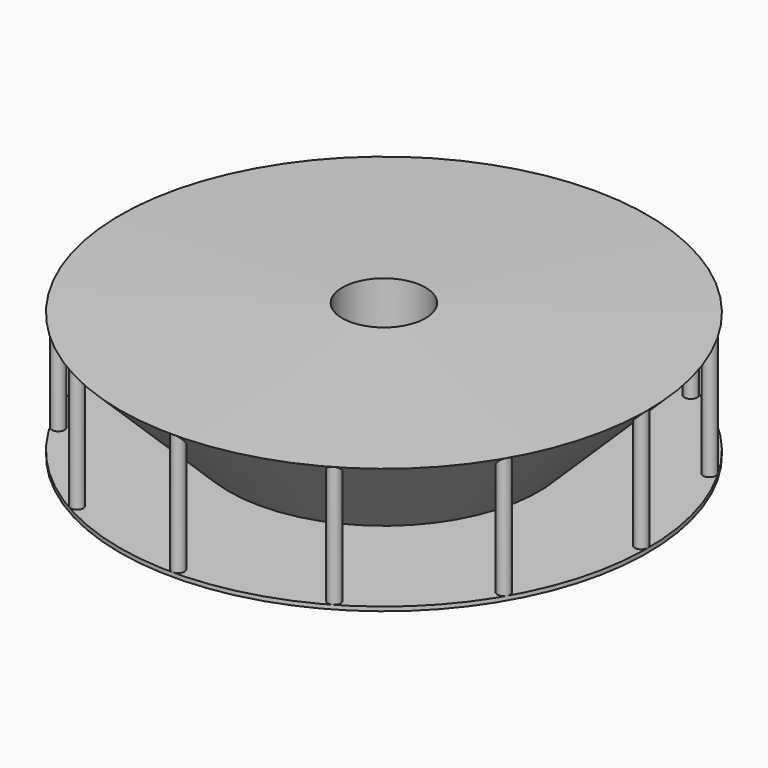
from build123d import *

# Parameters (mm, degrees)
F2_R     = 0.640733
F3_DEPTH = 12.1


with BuildPart() as f1:
    # F0 (on Right) → F1 (revolve)
    with BuildSketch(Plane.YZ):
        Polygon((4.154837, 12.980768), (4.154837, 4.606134), (15.491233, 1.440114), (26.361711, 12.118194), align=None)
        Polygon((15.491233, 0), (0, 0), (0, -0.412787), (26.361711, -0.412787), (26.361711, 0), align=None)
    revolve(axis=Axis((0, 0, 2.303067), (0, 0, 1)))


with BuildPart() as f3:
    # F2 (on Top) → F3 (new body)
    with BuildSketch(Plane.XY):
        with Locations((0, 25.697796)):
            Circle(F2_R)
        with Locations((-12.848898, 22.254944)):
            Circle(F2_R)
        with Locations((-22.254944, 12.848898)):
            Circle(F2_R)
        with Locations((-25.697796, 0)):
            Circle(F2_R)
        with Locations((-22.254944, -12.848898)):
            Circle(F2_R)
        with Locations((-12.848898, -22.254944)):
            Circle(F2_R)
        with Locations((0, -25.697796)):
            Circle(F2_R)
        with Locations((12.848898, -22.254944)):
            Circle(F2_R)
        with Locations((22.254944, -12.848898)):
            Circle(F2_R)
        with Locations((25.697796, 0)):
            Circle(F2_R)
        with Locations((22.254944, 12.848898)):
            Circle(F2_R)
        with Locations((12.848898, 22.254944)):
            Circle(F2_R)
    extrude(amount=F3_DEPTH)


solid = Compound([f1.part, f3.part])
